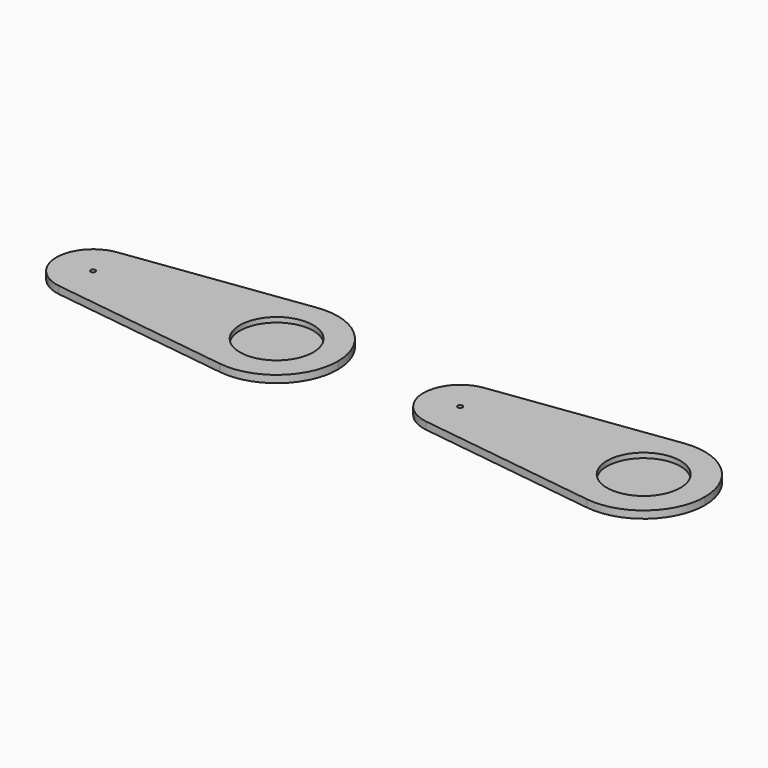
from build123d import *

# Parameters (mm, degrees)
F0_R     = 1
F1_DEPTH = 25
F2_DEPTH = 20
F3_DEPTH = 1
F4_DEPTH = 1
F5_R     = 15
F6_DEPTH = 2
F7_R     = 10
F7_R_2   = 1
F8_DEPTH = 1


with BuildPart() as f1:
    # F0 (on Top) → F1 (new body)
    with BuildSketch(Plane.XY):
        with BuildLine():
            ThreePointArc((-9.2365891067, -14.8660687473), (2.6376197224, -11.2915897906), (7.7634108933, 0))
            ThreePointArc((7.7634108933, 0), (2.6376197224, 11.2915897906), (-9.2365891067, 14.8660687473))
            ThreePointArc((-9.2365891067, 14.8660687473), (-22.2365891067, 0), (-9.2365891067, -14.8660687473))
        make_face()
        with Locations((-7.2365891067, 0)):
            Circle(F0_R, mode=Mode.SUBTRACT)
        with BuildLine():
            ThreePointArc((-9.2365891067, 14.8660687473), (2.6376197224, 11.2915897906), (7.7634108933, 0))
            ThreePointArc((7.7634108933, 0), (2.6376197224, -11.2915897906), (-9.2365891067, -14.8660687473))
            Line((-9.2365891067, -14.8660687473), (64.43007756, -24.7767812455))
            ThreePointArc((64.43007756, -24.7767812455), (42.7634108933, 1.265e-07), (64.4300778107, 24.7767812793))
            Line((64.4300778107, 24.7767812793), (-9.2365891067, 14.8660687473))
        make_face()
        with BuildLine():
            ThreePointArc((92.7634108933, 0), (84.2204257037, 18.8193162345), (64.4300778107, 24.7767812793))
            ThreePointArc((64.4300778107, 24.7767812793), (42.7634108933, 1.265e-07), (64.43007756, -24.7767812455))
            ThreePointArc((64.43007756, -24.7767812455), (84.2204256084, -18.8193163177), (92.7634108933, 0))
        make_face()
    extrude(amount=F1_DEPTH)

    # F2 (cut): a face of the model
    f2_faces = [f1.faces().sort_by_distance(p)[0] for p in [
        (39.734175485, 0, 25),
    ]]
    extrude(f2_faces, amount=-F2_DEPTH, mode=Mode.SUBTRACT)

    # F3 (cut): a face of the model
    f3_faces = [f1.faces().sort_by_distance(p)[0] for p in [
        (39.734175485, 0, 5),
    ]]
    extrude(f3_faces, amount=-F3_DEPTH, mode=Mode.SUBTRACT)

    # F4 (cut): a face of the model
    f4_faces = [f1.faces().sort_by_distance(p)[0] for p in [
        (39.734175485, 0, 4),
    ]]
    extrude(f4_faces, amount=-F4_DEPTH, mode=Mode.SUBTRACT)

    # F5 (on face) → F6 (cut)
    with BuildSketch(Plane.XY.offset(3)):
        with Locations((67.7634108933, 0)):
            Circle(F5_R)
    extrude(amount=-F6_DEPTH, mode=Mode.SUBTRACT)

    # F7 (on face) → F8 (cut)
    with BuildSketch(Plane(origin=(0, 0, 0), x_dir=(1, 0, 0), z_dir=(0, 0, -1))):
        with Locations((-7.2365891067, 0)):
            Circle(F7_R)
        with Locations((-7.2365891067, 0)):
            Circle(F7_R_2, mode=Mode.SUBTRACT)
    extrude(amount=-F8_DEPTH, mode=Mode.SUBTRACT)


with BuildPart() as f9_1:
    # F9: copy of F1
    add(f1.part.moved(Location((150, 0, 0))))


solid = Compound([f1.part, f9_1.part])
